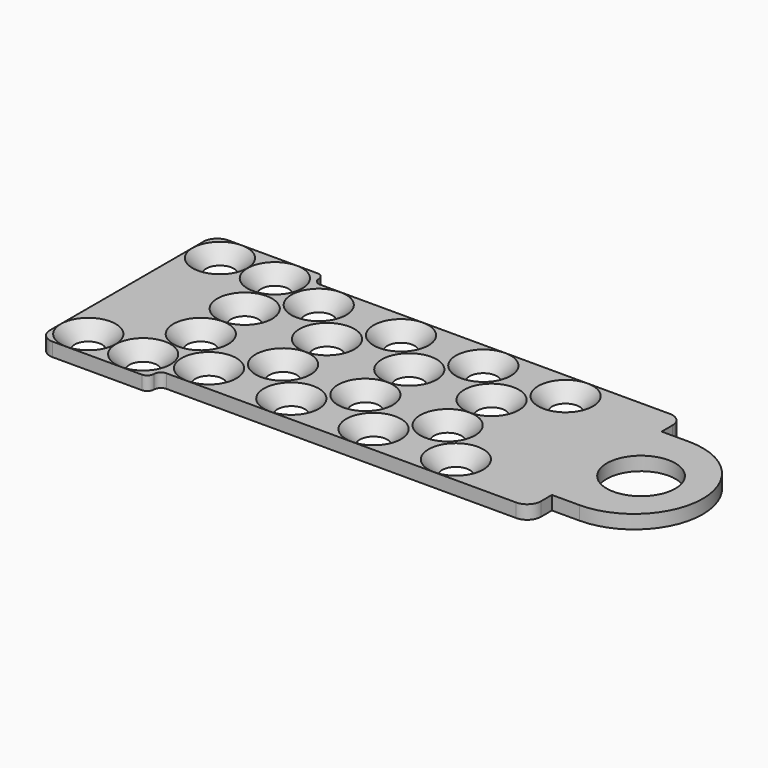
from build123d import *

# Parameters (mm, degrees)
SKETCH001_R      = 2.5
EXTRUDE001_DEPTH = 1
SKETCH035_R      = 2
SKETCH036_R      = 1
SKETCH040_R      = 2
SKETCH038_R      = 1
SKETCH041_R      = 2
SKETCH039_R      = 1
SKETCH037_R      = 2
SKETCH034_R      = 1
SKETCH017_R      = 2
SKETCH016_R      = 1
SKETCH011_R      = 2
SKETCH010_R      = 1
SKETCH025_R      = 2
SKETCH024_R      = 1
SKETCH019_R      = 2
SKETCH018_R      = 1
SKETCH015_R      = 2
SKETCH014_R      = 1
SKETCH023_R      = 2
SKETCH022_R      = 1
SKETCH021_R      = 2
SKETCH020_R      = 1
SKETCH013_R      = 2
SKETCH012_R      = 1
SKETCH029_R      = 2
SKETCH028_R      = 1
SKETCH031_R      = 2
SKETCH030_R      = 1
SKETCH033_R      = 2
SKETCH032_R      = 1
SKETCH027_R      = 2
SKETCH026_R      = 1
SKETCH005_R      = 2
SKETCH004_R      = 1
SKETCH009_R      = 2
SKETCH008_R      = 1
SKETCH002_R      = 2
SKETCH003_R      = 1
SKETCH007_R      = 2
SKETCH006_R      = 1
EXTRUDE_DEPTH    = 1


with BuildPart() as extrude001:
    # Sketch001 → Extrude001 (new body)
    with BuildSketch(Plane(origin=(-2, 0, 0), x_dir=(1, 0, 0), z_dir=(0, 0, 1))):
        with Locations((39.5, 8)):
            Circle(SKETCH001_R)
    extrude(amount=EXTRUDE001_DEPTH)


with BuildPart() as loft017:
    # Sketch035 → Loft017 section 0
    with BuildSketch(Plane.XY.offset(1)):
        with Locations((2, 2)):
            Circle(SKETCH035_R)
    # Sketch036 → Loft017 section 1
    with BuildSketch(Plane.XY):
        with Locations((2, 2)):
            Circle(SKETCH036_R)
    loft()


with BuildPart() as loft017_1:
    # Loft017 placement: moved
    add(loft017.part.moved(Location((14, 11, 0))))


with BuildPart() as loft018:
    # Sketch040 → Loft018 section 0
    with BuildSketch(Plane.XY.offset(1)):
        with Locations((2, 2)):
            Circle(SKETCH040_R)
    # Sketch038 → Loft018 section 1
    with BuildSketch(Plane.XY):
        with Locations((2, 2)):
            Circle(SKETCH038_R)
    loft()


with BuildPart() as loft018_1:
    # Loft018 placement: moved
    add(loft018.part.moved(Location((20, 11, 0))))


with BuildPart() as loft019:
    # Sketch041 → Loft019 section 0
    with BuildSketch(Plane.XY.offset(1)):
        with Locations((2, 2)):
            Circle(SKETCH041_R)
    # Sketch039 → Loft019 section 1
    with BuildSketch(Plane.XY):
        with Locations((2, 2)):
            Circle(SKETCH039_R)
    loft()


with BuildPart() as loft019_1:
    # Loft019 placement: moved
    add(loft019.part.moved(Location((26, 11, 0))))


with BuildPart() as fusion001:
    # Sketch037 → Loft016 section 0
    with BuildSketch(Plane.XY.offset(1)):
        with Locations((2, 2)):
            Circle(SKETCH037_R)
    # Sketch034 → Loft016 section 1
    with BuildSketch(Plane.XY):
        with Locations((2, 2)):
            Circle(SKETCH034_R)
    loft()


with BuildPart() as fusion001_1:
    # Loft016 placement: moved
    add(fusion001.part.moved(Location((8, 11, 0))))

    # Fusion001: union Loft017, Loft018, Loft019
    add(loft017_1.part)
    add(loft018_1.part)
    add(loft019_1.part)


with BuildPart() as loft007:
    # Sketch017 → Loft007 section 0
    with BuildSketch(Plane.XY.offset(1)):
        with Locations((2, 2)):
            Circle(SKETCH017_R)
    # Sketch016 → Loft007 section 1
    with BuildSketch(Plane.XY):
        with Locations((2, 2)):
            Circle(SKETCH016_R)
    loft()


with BuildPart() as loft007_1:
    # Loft007 placement: moved
    add(loft007.part.moved(Location((11, 4, 0))))


with BuildPart() as loft004:
    # Sketch011 → Loft004 section 0
    with BuildSketch(Plane.XY.offset(1)):
        with Locations((2, 2)):
            Circle(SKETCH011_R)
    # Sketch010 → Loft004 section 1
    with BuildSketch(Plane.XY):
        with Locations((2, 2)):
            Circle(SKETCH010_R)
    loft()


with BuildPart() as loft004_1:
    # Loft004 placement: moved
    add(loft004.part.moved(Location((5, 4, 0))))


with BuildPart() as loft011:
    # Sketch025 → Loft011 section 0
    with BuildSketch(Plane.XY.offset(1)):
        with Locations((2, 2)):
            Circle(SKETCH025_R)
    # Sketch024 → Loft011 section 1
    with BuildSketch(Plane.XY):
        with Locations((2, 2)):
            Circle(SKETCH024_R)
    loft()


with BuildPart() as loft011_1:
    # Loft011 placement: moved
    add(loft011.part.moved(Location((23, 4, 0))))


with BuildPart() as fusion003:
    # Sketch019 → Loft008 section 0
    with BuildSketch(Plane.XY.offset(1)):
        with Locations((2, 2)):
            Circle(SKETCH019_R)
    # Sketch018 → Loft008 section 1
    with BuildSketch(Plane.XY):
        with Locations((2, 2)):
            Circle(SKETCH018_R)
    loft()


with BuildPart() as fusion003_1:
    # Loft008 placement: moved
    add(fusion003.part.moved(Location((17, 4, 0))))

    # Fusion003: union Loft007, Loft004, Loft011
    add(loft007_1.part)
    add(loft004_1.part)
    add(loft011_1.part)


with BuildPart() as fusion003_2:
    # Fusion003 placement: moved
    add(fusion003_1.part.moved(Location((0.001, -0.001, 0))))


with BuildPart() as loft006:
    # Sketch015 → Loft006 section 0
    with BuildSketch(Plane.XY.offset(1)):
        with Locations((2, 2)):
            Circle(SKETCH015_R)
    # Sketch014 → Loft006 section 1
    with BuildSketch(Plane.XY):
        with Locations((2, 2)):
            Circle(SKETCH014_R)
    loft()


with BuildPart() as loft006_1:
    # Loft006 placement: moved
    add(loft006.part.moved(Location((11, 8, 0))))


with BuildPart() as loft010:
    # Sketch023 → Loft010 section 0
    with BuildSketch(Plane.XY.offset(1)):
        with Locations((2, 2)):
            Circle(SKETCH023_R)
    # Sketch022 → Loft010 section 1
    with BuildSketch(Plane.XY):
        with Locations((2, 2)):
            Circle(SKETCH022_R)
    loft()


with BuildPart() as loft010_1:
    # Loft010 placement: moved
    add(loft010.part.moved(Location((23, 8, 0))))


with BuildPart() as loft009:
    # Sketch021 → Loft009 section 0
    with BuildSketch(Plane.XY.offset(1)):
        with Locations((2, 2)):
            Circle(SKETCH021_R)
    # Sketch020 → Loft009 section 1
    with BuildSketch(Plane.XY):
        with Locations((2, 2)):
            Circle(SKETCH020_R)
    loft()


with BuildPart() as loft009_1:
    # Loft009 placement: moved
    add(loft009.part.moved(Location((17, 8, 0))))


with BuildPart() as fusion007:
    # Sketch013 → Loft005 section 0
    with BuildSketch(Plane.XY.offset(1)):
        with Locations((2, 2)):
            Circle(SKETCH013_R)
    # Sketch012 → Loft005 section 1
    with BuildSketch(Plane.XY):
        with Locations((2, 2)):
            Circle(SKETCH012_R)
    loft()


with BuildPart() as fusion007_1:
    # Loft005 placement: moved
    add(fusion007.part.moved(Location((5, 8, 0))))

    # Fusion002: union Loft006, Loft010, Loft009
    add(loft006_1.part)
    add(loft010_1.part)
    add(loft009_1.part)


with BuildPart() as fusion007_2:
    # Fusion002 placement: moved
    add(fusion007_1.part.moved(Location((0.001, 0.001, 0))))

    # Fusion007: union Fusion003
    add(fusion003_2.part)


with BuildPart() as loft013:
    # Sketch029 → Loft013 section 0
    with BuildSketch(Plane.XY.offset(1)):
        with Locations((2, 2)):
            Circle(SKETCH029_R)
    # Sketch028 → Loft013 section 1
    with BuildSketch(Plane.XY):
        with Locations((2, 2)):
            Circle(SKETCH028_R)
    loft()


with BuildPart() as loft013_1:
    # Loft013 placement: moved
    add(loft013.part.moved(Location((14, 1, 0))))


with BuildPart() as loft014:
    # Sketch031 → Loft014 section 0
    with BuildSketch(Plane.XY.offset(1)):
        with Locations((2, 2)):
            Circle(SKETCH031_R)
    # Sketch030 → Loft014 section 1
    with BuildSketch(Plane.XY):
        with Locations((2, 2)):
            Circle(SKETCH030_R)
    loft()


with BuildPart() as loft014_1:
    # Loft014 placement: moved
    add(loft014.part.moved(Location((20, 1, 0))))


with BuildPart() as loft015:
    # Sketch033 → Loft015 section 0
    with BuildSketch(Plane.XY.offset(1)):
        with Locations((2, 2)):
            Circle(SKETCH033_R)
    # Sketch032 → Loft015 section 1
    with BuildSketch(Plane.XY):
        with Locations((2, 2)):
            Circle(SKETCH032_R)
    loft()


with BuildPart() as loft015_1:
    # Loft015 placement: moved
    add(loft015.part.moved(Location((26, 1, 0))))


with BuildPart() as fusion:
    # Sketch027 → Loft012 section 0
    with BuildSketch(Plane.XY.offset(1)):
        with Locations((2, 2)):
            Circle(SKETCH027_R)
    # Sketch026 → Loft012 section 1
    with BuildSketch(Plane.XY):
        with Locations((2, 2)):
            Circle(SKETCH026_R)
    loft()


with BuildPart() as fusion_1:
    # Loft012 placement: moved
    add(fusion.part.moved(Location((8, 1, 0))))

    # Fusion: union Loft013, Loft014, Loft015
    add(loft013_1.part)
    add(loft014_1.part)
    add(loft015_1.part)


with BuildPart() as loft001:
    # Sketch005 → Loft001 section 0
    with BuildSketch(Plane.XY.offset(1)):
        with Locations((2, 2)):
            Circle(SKETCH005_R)
    # Sketch004 → Loft001 section 1
    with BuildSketch(Plane.XY):
        with Locations((2, 2)):
            Circle(SKETCH004_R)
    loft()


with BuildPart() as loft001_1:
    # Loft001 placement: moved
    add(loft001.part.moved(Location((4, 0, 0))))


with BuildPart() as fusion004:
    # Sketch009 → Loft002 section 0
    with BuildSketch(Plane.XY.offset(1)):
        with Locations((2, 2)):
            Circle(SKETCH009_R)
    # Sketch008 → Loft002 section 1
    with BuildSketch(Plane.XY):
        with Locations((2, 2)):
            Circle(SKETCH008_R)
    loft()


with BuildPart() as fusion004_1:
    # Loft002 placement: moved
    add(fusion004.part.moved(Location((4, 12, 0))))

    # Fusion004: union Loft001
    add(loft001_1.part)


with BuildPart() as loft_body:
    # Sketch002 → Loft section 0
    with BuildSketch(Plane.XY.offset(1)):
        with Locations((2, 2)):
            Circle(SKETCH002_R)
    # Sketch003 → Loft section 1
    with BuildSketch(Plane.XY):
        with Locations((2, 2)):
            Circle(SKETCH003_R)
    loft()


with BuildPart() as fusion008:
    # Sketch007 → Loft003 section 0
    with BuildSketch(Plane.XY.offset(1)):
        with Locations((2, 2)):
            Circle(SKETCH007_R)
    # Sketch006 → Loft003 section 1
    with BuildSketch(Plane.XY):
        with Locations((2, 2)):
            Circle(SKETCH006_R)
    loft()


with BuildPart() as fusion008_1:
    # Loft003 placement: moved
    add(fusion008.part.moved(Location((0, 12, 0))))

    # Fusion005: union Loft body
    add(loft_body.part)


with BuildPart() as fusion008_2:
    # Fusion005 placement: moved
    add(fusion008_1.part.moved(Location((-0.001, 0, 0))))

    # Fusion006: union Fusion004
    add(fusion004_1.part)

    # Fusion008: union Fusion001, Fusion007, Fusion
    add(fusion001_1.part)
    add(fusion007_2.part)
    add(fusion_1.part)


with BuildPart() as obj1:
    # Sketch → Extrude (new body)
    with BuildSketch(Plane.XY):
        with BuildLine():
            Line((0, 0.999999), (0, 15))
            ThreePointArc((1, 16), (0.292893, 15.707107), (0, 15))
            Line((1, 16), (7.5, 16))
            ThreePointArc((8, 15.5), (7.853553, 15.853554), (7.5, 16))
            ThreePointArc((8, 15.5), (8.146447, 15.146447), (8.5, 15))
            Line((34, 15), (8.5, 15))
            ThreePointArc((35, 14), (34.707107, 14.707107), (34, 15))
            Line((35, 14), (35, 13))
            Line((35, 13), (37.000002, 13))
            ThreePointArc((37.000002, 3), (42, 8), (37.000002, 13))
            Line((37.000002, 3), (35, 3))
            Line((35, 2), (35, 3))
            ThreePointArc((34, 1), (34.707107, 1.292893), (35, 2))
            Line((8.5, 1), (34, 1))
            ThreePointArc((8.5, 1), (8.146447, 0.853553), (8, 0.5))
            ThreePointArc((7.5, 0), (7.853553, 0.146446), (8, 0.5))
            Line((7.5, 0), (1, 0))
            ThreePointArc((0, 0.999999), (0.292893, 0.292893), (1, 0))
        make_face()
    extrude(amount=EXTRUDE_DEPTH)

    # Cut: cut Fusion008
    add(fusion008_2.part, mode=Mode.SUBTRACT)

    # Cut001: cut Extrude001
    add(extrude001.part, mode=Mode.SUBTRACT)


solid = obj1.part
